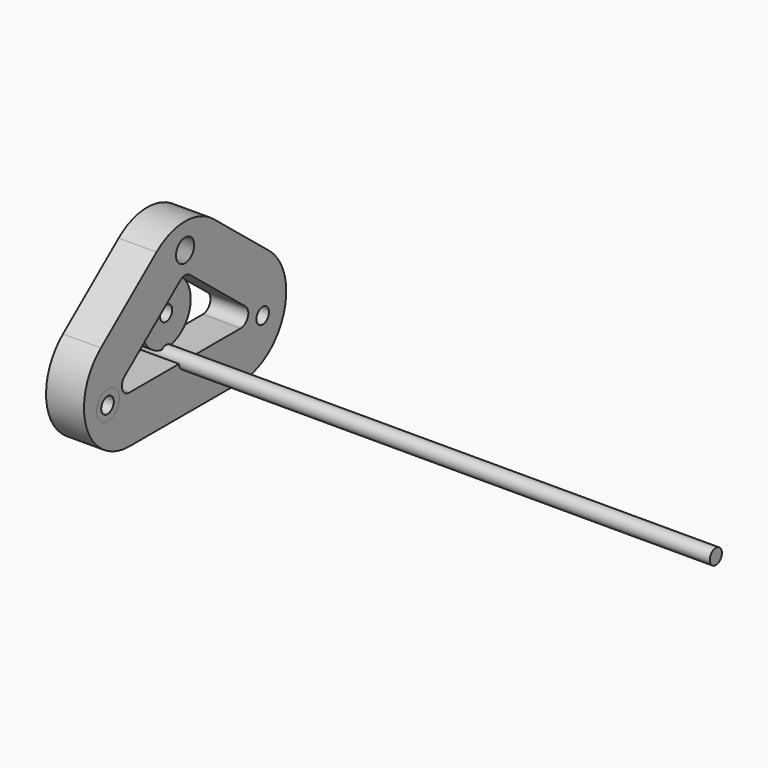
from build123d import *

# Parameters (mm, degrees)
F0_R     = 4
F1_DEPTH = 300
F2_R     = 4.15
F2_R_2   = 7.5
F2_R_3   = 6
F3_DEPTH = 20
F5_R     = 16.221886
F5_R_2   = 4
F6_DEPTH = 10


with BuildPart() as f1:
    # F0 (on Right) → F1 (new body)
    with BuildSketch(Plane.YZ):
        Circle(F0_R)
    extrude(amount=F1_DEPTH)


with BuildPart() as f3:
    # F2 (on Right) → F3 (new body)
    with BuildSketch(Plane.YZ):
        with BuildLine():
            Line((0, -25), (36.686111, -25))
            ThreePointArc((36.686111, -25), (64.972656, -4.993565), (55.531673, 28.34191))
            Line((55.531673, 28.34191), (18.845563, 57.961183))
            ThreePointArc((18.845563, 57.961183), (0, 64.619272), (-18.845563, 57.961183))
            Line((-18.845563, 57.961183), (-55.531673, 28.34191))
            ThreePointArc((-55.531673, 28.34191), (-64.972656, -4.993565), (-36.686111, -25))
            Line((-36.686111, -25), (0, -25))
        make_face()
        with Locations((-51.16151, 0)):
            Circle(F2_R, mode=Mode.SUBTRACT)
        with Locations((50.83849, 0)):
            Circle(F2_R_2, mode=Mode.SUBTRACT)
        with BuildLine():
            Line((-39.827038, 8.890318), (-3.140927, 38.509591))
            ThreePointArc((-3.140927, 38.509591), (0, 39.619272), (3.140927, 38.509591))
            Line((3.140927, 38.509591), (39.827038, 8.890318))
            ThreePointArc((39.827038, 8.890318), (41.400535, 3.334406), (36.686111, 0))
            Line((36.686111, 0), (0, 0))
            Line((0, 0), (-36.686111, 0))
            ThreePointArc((-36.686111, 0), (-41.400535, 3.334406), (-39.827038, 8.890318))
        make_face(mode=Mode.SUBTRACT)
        with Locations((0, 51.14878)):
            Circle(F2_R_3, mode=Mode.SUBTRACT)
    extrude(amount=F3_DEPTH)


with BuildPart() as f4_1:
    # F4: instance of F3
    add(f3.part.mirror(Plane.XZ))


with BuildPart() as f6:
    # F5 (on Right) → F6 (new body)
    with BuildSketch(Plane.YZ):
        with Locations((0, 18.723123)):
            Circle(F5_R)
        with Locations((0, 18.723123)):
            Circle(F5_R_2, mode=Mode.SUBTRACT)
    extrude(amount=F6_DEPTH)


solid = Compound([f1.part, f3.part, f4_1.part, f6.part])
